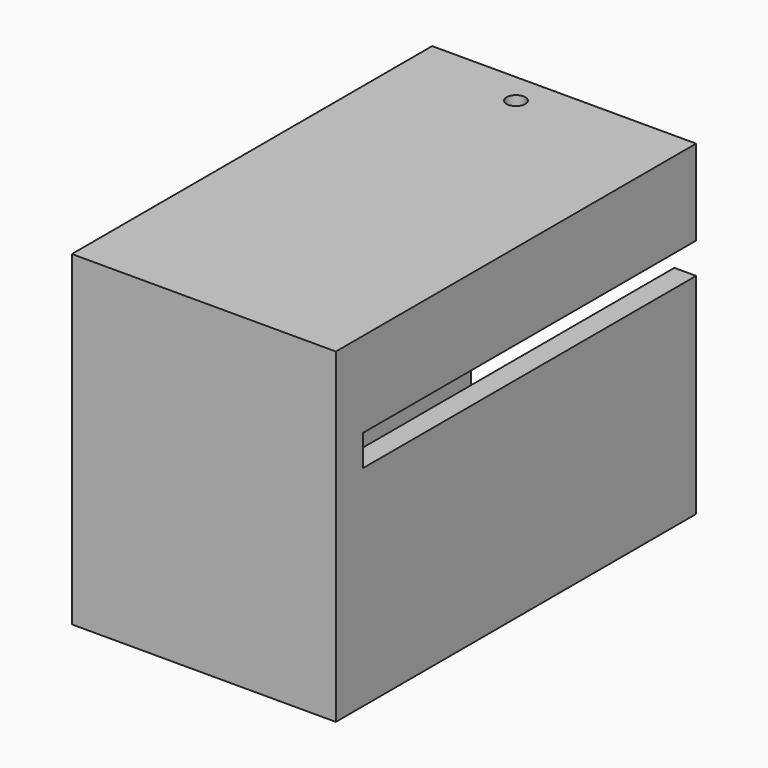
from build123d import *

# Parameters (mm, degrees)
SKETCH220_W     = 17
SKETCH220_H     = 21
PAD131_DEPTH    = 29
SKETCH218_W     = 13.1
SKETCH218_H     = 17
POCKET023_DEPTH = 25.7
SKETCH215_W     = 11.5
SKETCH215_H     = 1.2
SKETCH215_W_2   = 1.4
SKETCH215_H_2   = 2
POCKET024_DEPTH = 26.8
SKETCH212_R     = 0.6
POCKET022_DEPTH = 50
SKETCH214_W     = 0.6
SKETCH214_H     = 3
POCKET025_DEPTH = 2.5


with BuildPart() as part:
    # Sketch220 → Pad131 (new body)
    with BuildSketch(Plane.XZ):
        with Locations((1.5, 2)):
            Rectangle(SKETCH220_W, SKETCH220_H)
    extrude(amount=PAD131_DEPTH)

    # Sketch218 (on Face5 of Pad131) → Pocket023 (cut)
    with BuildSketch(Plane(origin=(0, 0, 0), x_dir=(1, 0, 0), z_dir=(0, 1, 0))):
        with Locations((2.05, -2)):
            Rectangle(SKETCH218_W, SKETCH218_H)
    extrude(amount=-POCKET023_DEPTH, mode=Mode.SUBTRACT)

    # Sketch215 (on Face4 of Pocket023) → Pocket024 (cut)
    with BuildSketch(Plane(origin=(0, 0, 0), x_dir=(1, 0, 0), z_dir=(0, 1, 0))):
        Rectangle(SKETCH215_W, SKETCH215_H)
        with Locations((9.3, -6)):
            Rectangle(SKETCH215_W_2, SKETCH215_H_2)
    extrude(amount=-POCKET024_DEPTH, mode=Mode.SUBTRACT)

    # Sketch212 (on Face6 of Pocket024) → Pocket022 (cut)
    with BuildSketch(Plane(origin=(0, 0, -8.5), x_dir=(1, 0, 0), z_dir=(0, 0, -1))):
        with Locations((0, 2)):
            Circle(SKETCH212_R)
    extrude(amount=-POCKET022_DEPTH, mode=Mode.SUBTRACT)

    # Sketch214 (on Face21 of Pocket022) → Pocket025 (cut)
    with BuildSketch(Plane(origin=(8.6, 0, 0), x_dir=(0, 0, 1), z_dir=(1, 0, 0))):
        with Locations((0, -9)):
            Rectangle(SKETCH214_W, SKETCH214_H)
    extrude(amount=-POCKET025_DEPTH, mode=Mode.SUBTRACT)


solid = part.part
